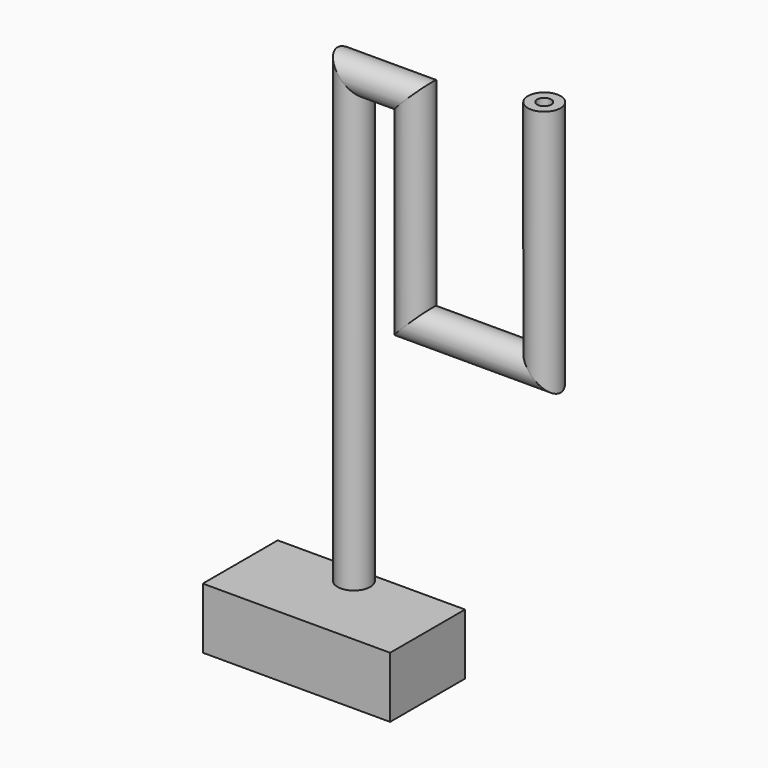
from build123d import *

# Parameters (mm, degrees)
F1_R     = 3.5
F1_R_2   = 1.5
F4_W     = 40
F4_H     = 13
F5_DEPTH = 20
F6_R     = 2.5
F7_DEPTH = 17.5
F8_R     = 2.5
F9_DEPTH = 13.7


with BuildPart() as f3:
    # F3: sweep along a path in F2
    with BuildLine(Plane.XZ) as f3_path:
        Line((-5.2793398216, 0), (-5.2793398216, -50))
        Line((-5.2793398216, -50), (-32.7452681959, -50))
        Line((-32.7452681959, -50), (-32.7452681959, -7.5485259295))
        Line((-32.7452681959, -7.5485259295), (-45.9185168147, -7.5485259295))
        Line((-45.9185168147, -7.5485259295), (-45.9185168147, -111.4290356636))
    # F1 (on Top) → F3 (sweep)
    with BuildSketch(Plane.XY):
        with Locations((-5.2793398216, -3.5)):
            Circle(F1_R)
        with Locations((-5.2793398216, -3.5)):
            Circle(F1_R_2, mode=Mode.SUBTRACT)
    sweep(path=f3_path.line, transition=Transition.RIGHT)

    # F4 (on face) → F5 (join)
    with BuildSketch(Plane.XZ):
        with Locations((-44.9899062514, -109.7345791803)):
            Rectangle(F4_W, F4_H)
    extrude(amount=F5_DEPTH)

    # F6 (on face) → F7 (cut)
    with BuildSketch(Plane(origin=(-64.9899062514, 0, 0), x_dir=(0, -1, 0), z_dir=(-1, 0, 0))):
        with Locations((2.9474398464, -112.3711525504)):
            Circle(F6_R)
    extrude(amount=-F7_DEPTH, mode=Mode.SUBTRACT)

    # F8 (on face) → F9 (cut)
    with BuildSketch(Plane(origin=(0, 0, -116.2345791803), x_dir=(1, 0, 0), z_dir=(0, 0, -1))):
        with Locations((-45.9672063589, 2.9437162448)):
            Circle(F8_R)
    extrude(amount=-F9_DEPTH, mode=Mode.SUBTRACT)


solid = f3.part
